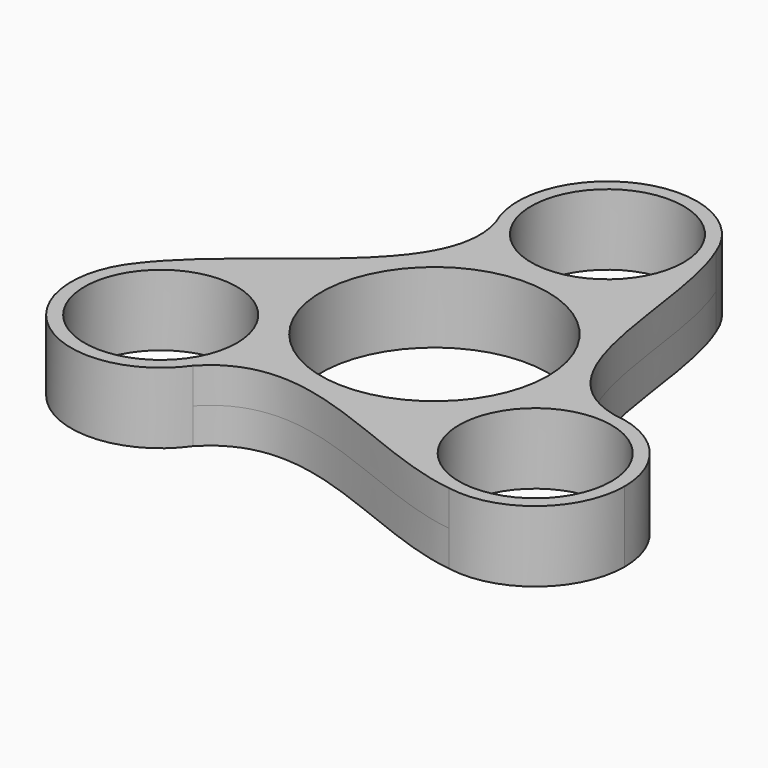
from build123d import *

# Parameters (mm, degrees)
F0_R     = 27.305
F0_R_2   = 40.64
F1_DEPTH = 12.7


with BuildPart() as f1:
    # F0 (on Top) → F1 (new body, symmetric)
    with BuildSketch(Plane.XY):
        with BuildLine():
            ThreePointArc((-39.96043, -56.685273), (-35.633978, -47.925871), (-34.145784, -38.270273))
            ThreePointArc((-34.145784, -38.270273), (-55.239867, -8.13875), (-90.770633, -17.648411))
            ThreePointArc((-90.770633, -17.648411), (-85.750117, -63.699325), (-39.96043, -56.685273))
        make_face()
        with Locations((-66.213284, -38.270273)):
            Circle(F0_R, mode=Mode.SUBTRACT)
        with BuildLine():
            ThreePointArc((-90.770633, -17.648411), (-55.239867, -8.13875), (-34.145784, -38.270273))
            ThreePointArc((-34.145784, -38.270273), (-35.633978, -47.925871), (-39.96043, -56.685273))
            add(Edge.make_bspline(
                [(-39.96043, -56.685273), (-15.055393, -29.895963), (28.272031, -65.460931), (62.38831, -69.848491)],
                knots=[0, 0, 0, 0, 103.191739, 103.191739, 103.191739, 103.191739], degree=3))
            ThreePointArc((62.38831, -69.848491), (36.17807, -34.065405), (70.790123, -6.327134))
            add(Edge.make_bspline(
                [(70.790123, -6.327134), (35.137381, 1.846606), (44.273835, 57.15174), (31.015434, 88.891084)],
                knots=[0, 0, 0, 0, 103.191739, 103.191739, 103.191739, 103.191739], degree=3))
            ThreePointArc((31.015434, 88.891084), (32.459077, 83.49723), (32.945204, 77.934727))
            ThreePointArc((32.945204, 77.934727), (7.805363, 46.624472), (-28.196581, 64.406589))
            add(Edge.make_bspline(
                [(-28.196581, 64.406589), (-17.448877, 29.443539), (-69.912755, 9.703373), (-90.770633, -17.648411)],
                knots=[0, 0, 0, 0, 103.191739, 103.191739, 103.191739, 103.191739], degree=3))
        make_face()
        with Locations((0.877704, 0.464727)):
            Circle(F0_R_2, mode=Mode.SUBTRACT)
        with BuildLine():
            ThreePointArc((31.015434, 88.891084), (-11.376085, 107.568647), (-28.196581, 64.406589))
            ThreePointArc((-28.196581, 64.406589), (7.805363, 46.624472), (32.945204, 77.934727))
            ThreePointArc((32.945204, 77.934727), (32.459077, 83.49723), (31.015434, 88.891084))
        make_face()
        with Locations((0.877704, 77.934727)):
            Circle(F0_R, mode=Mode.SUBTRACT)
        with BuildLine():
            ThreePointArc((70.790123, -6.327134), (36.17807, -34.065405), (62.38831, -69.848491))
            ThreePointArc((62.38831, -69.848491), (88.576647, -62.839292), (100.036192, -38.270273))
            ThreePointArc((100.036192, -38.270273), (91.620339, -16.615616), (70.790123, -6.327134))
        make_face()
        with Locations((67.968692, -38.270273)):
            Circle(F0_R, mode=Mode.SUBTRACT)
    extrude(amount=F1_DEPTH, both=True)


solid = f1.part
